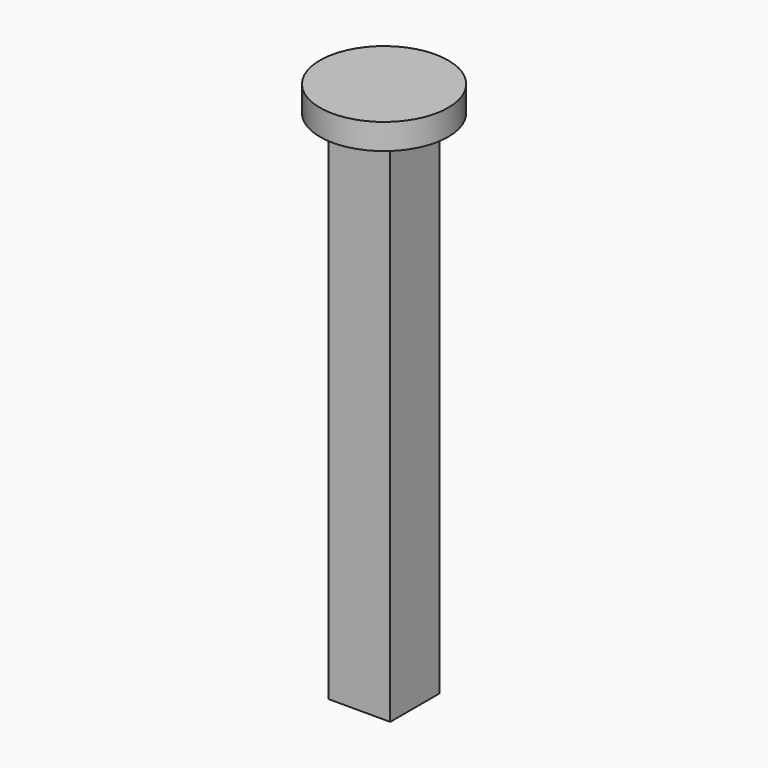
from build123d import *

# Parameters (mm, degrees)
F0_W     = 12
F0_H     = 12
F1_DEPTH = 100
F3_R     = 12.5
F4_DEPTH = 5


with BuildPart() as f1:
    # F0 (on Top) → F1 (new body)
    with BuildSketch(Plane.XY):
        Rectangle(F0_W, F0_H)
    extrude(amount=F1_DEPTH)

    # F3 (on offset) → F4 (join)
    with BuildSketch(Plane.XY.offset(100)):
        Circle(F3_R)
    extrude(amount=F4_DEPTH)


solid = f1.part
